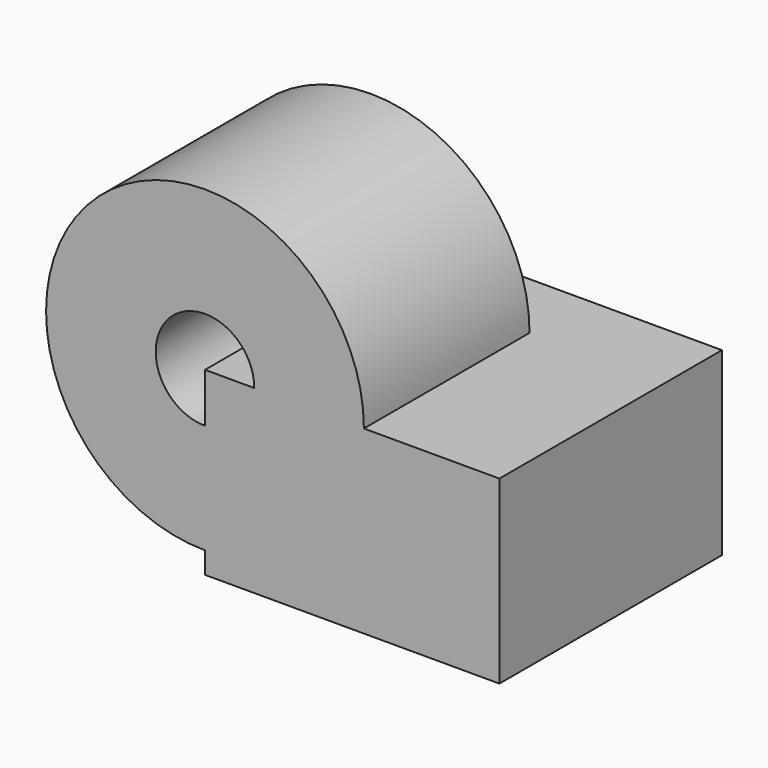
from build123d import *

# Parameters (mm, degrees)
F0_W     = 41.426465
F0_H     = 39.133079
F1_DEPTH = 25.4
F2_W     = 15.425408
F2_H     = 29.133079


with BuildPart() as f1:
    # F0 (on Top) → F1 (new body)
    with BuildSketch(Plane.XY):
        with Locations((20.713233, 19.566539)):
            Rectangle(F0_W, F0_H)
    extrude(amount=F1_DEPTH)

    # F2 (on face) → F3 (revolve)
    with BuildSketch(Plane.XY.offset(25.4)):
        with Locations((14.647124, 14.566539)):
            Rectangle(F2_W, F2_H)
    revolve(axis=Axis((0, 19.56654, 25.4), (0, -1, 0)))


solid = f1.part
